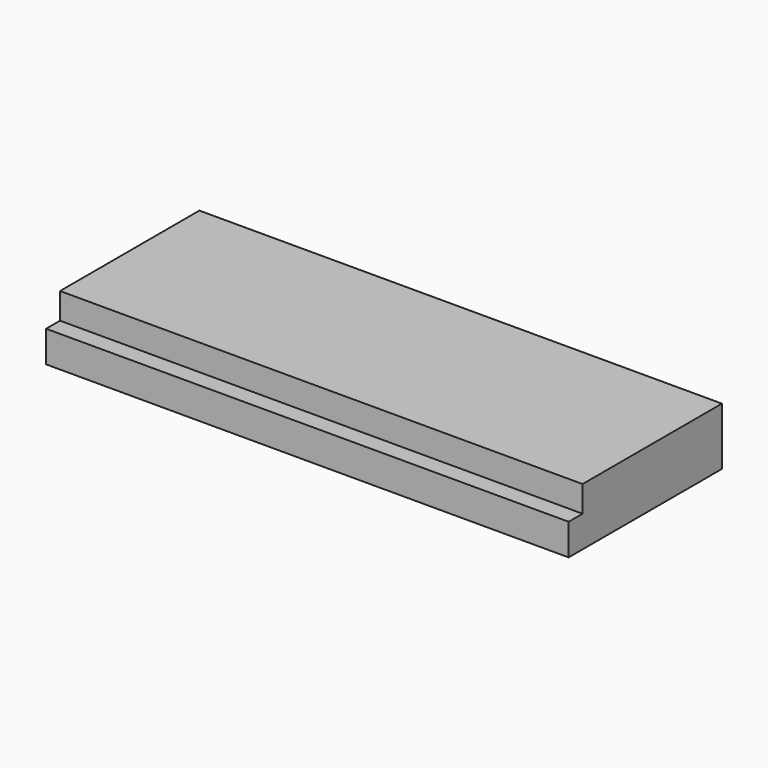
from build123d import *

# Parameters (mm, degrees)
F2_DEPTH = 1500


with BuildPart() as f2:
    # F1 (on Right) → F2 (new body, symmetric)
    with BuildSketch(Plane.YZ):
        Polygon((2000, -330.278128), (2000, 0), (1900, 0), (1900, -150), (1800, -150), (1800, -330.278128), align=None)
        Polygon((1900, -150), (1900, 0), (1000, 0), (1000, -150), (1800, -150), align=None)
        Polygon((900, -330.278128), (1800, -330.278128), (1800, -150), (1000, -150), (900, -150), align=None)
    extrude(amount=F2_DEPTH, both=True)


solid = f2.part
